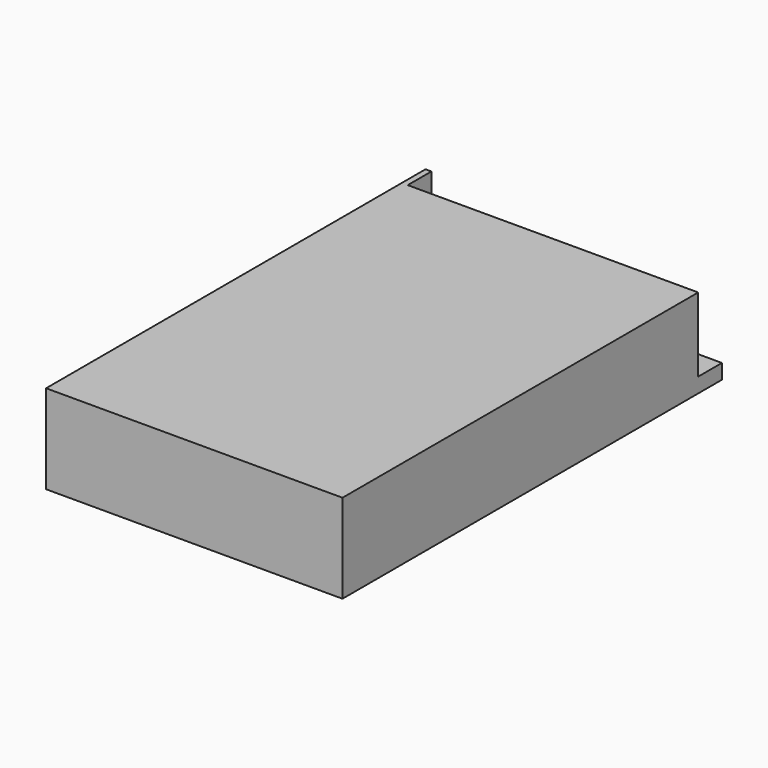
from build123d import *

# Parameters (mm, degrees)
F0_W     = 100
F0_H     = 160
F1_DEPTH = 30
F2_R     = 1.5
F3_DEPTH = 10
F4_W     = 98
F4_H     = 10
F5_DEPTH = 25


with BuildPart() as f1:
    # F0 (on Top) → F1 (new body)
    with BuildSketch(Plane.XY):
        with Locations((50, -80)):
            Rectangle(F0_W, F0_H)
    extrude(amount=F1_DEPTH)

    # F2 (on face) → F3 (cut)
    with BuildSketch(Plane(origin=(0, 0, 0), x_dir=(0, -1, 0), z_dir=(-1, 0, 0))):
        with Locations((140, 25)):
            Circle(F2_R)
        with Locations((140, 5)):
            Circle(F2_R)
    extrude(amount=-F3_DEPTH, mode=Mode.SUBTRACT)

    # F4 (on face) → F5 (cut)
    with BuildSketch(Plane.XY.offset(30)):
        with Locations((51, -5)):
            Rectangle(F4_W, F4_H)
    extrude(amount=-F5_DEPTH, mode=Mode.SUBTRACT)


solid = f1.part
